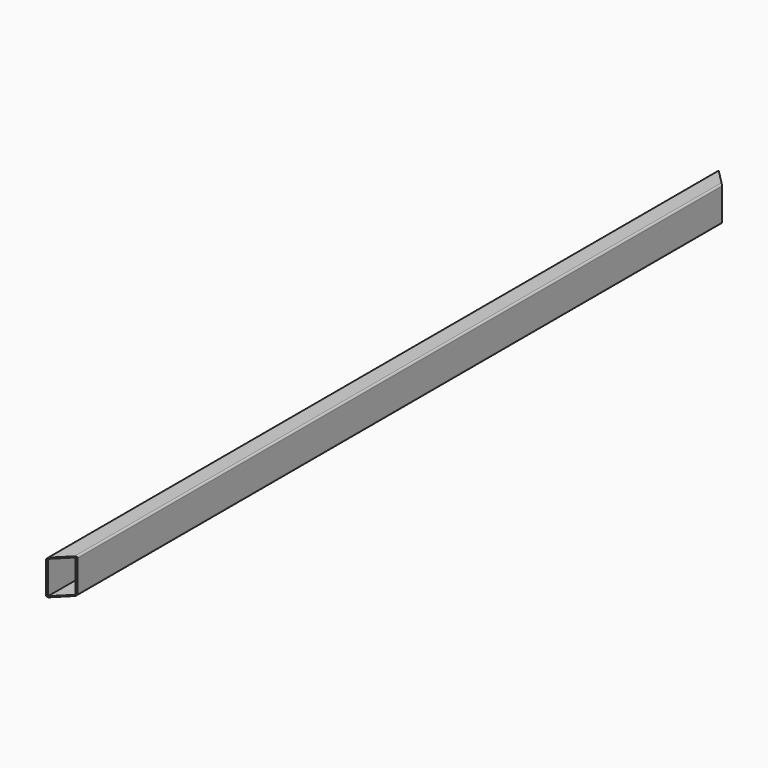
from build123d import *

# Parameters (mm, degrees)
F0_W     = 50.8
F0_H     = 101.6
F0_W_2   = 44.45
F0_H_2   = 95.25
F1_DEPTH = 2438.4
F3_DEPTH = 135.382
F4_R     = 5.08


with BuildPart() as f1:
    # F0 (on Front) → F1 (new body)
    with BuildSketch(Plane.XZ):
        with Locations((25.4, 50.8)):
            Rectangle(F0_W, F0_H)
        with Locations((25.4, 50.8)):
            Rectangle(F0_W_2, F0_H_2, mode=Mode.SUBTRACT)
    extrude(amount=F1_DEPTH)

    # F2 (on face) → F3 (cut)
    with BuildSketch(Plane.XY.offset(101.6)):
        Polygon((50.8, 0), (0, 0), (50.8, -50.8), align=None)
        Polygon((50.8, -2387.6), (0, -2438.4), (50.8, -2438.4), align=None)
    extrude(amount=-F3_DEPTH, mode=Mode.SUBTRACT)

    # F4
    f4_edges = [f1.edges().sort_by_distance(p)[0] for p in [
        (50.8, -1219.2, 101.6),
        (0, -1219.2, 101.6),
        (50.8, -1219.2, 0),
        (0, -1219.2, 0),
    ]]
    fillet(f4_edges, radius=F4_R)


solid = f1.part
